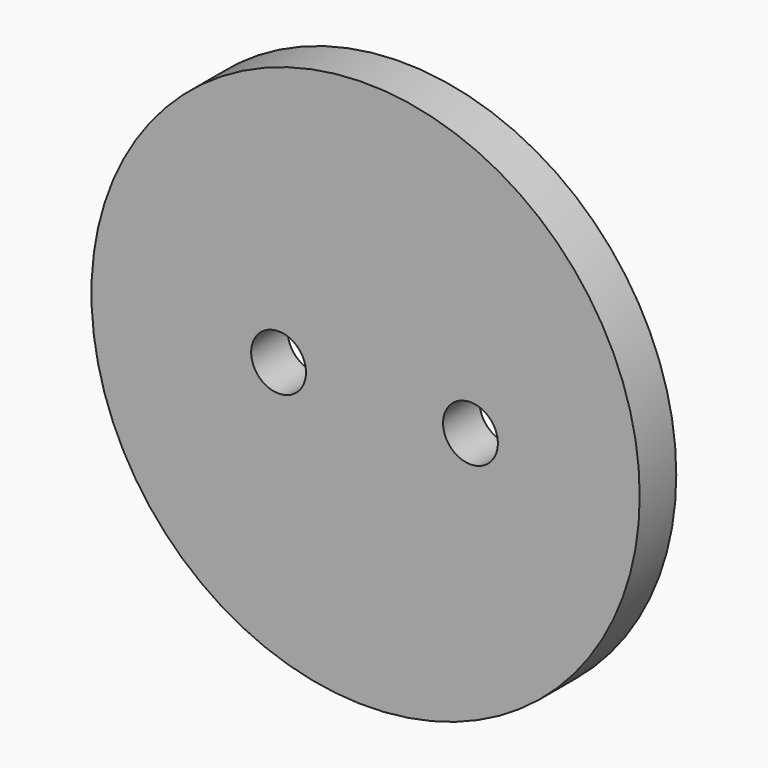
from build123d import *

# Parameters (mm, degrees)
F0_R     = 15
F1_DEPTH = 2.5
F2_R     = 1.5
F3_DEPTH = 5


with BuildPart() as f1:
    # F0 (on Front) → F1 (new body)
    with BuildSketch(Plane.XZ):
        Circle(F0_R)
    extrude(amount=F1_DEPTH)

    # F2 (on face) → F3 (cut)
    with BuildSketch(Plane.XZ.offset(2.5)):
        with Locations((-4.761344, 0)):
            Circle(F2_R)
        with Locations((5.738656, 0)):
            Circle(F2_R)
    extrude(amount=-F3_DEPTH, mode=Mode.SUBTRACT)


solid = f1.part
